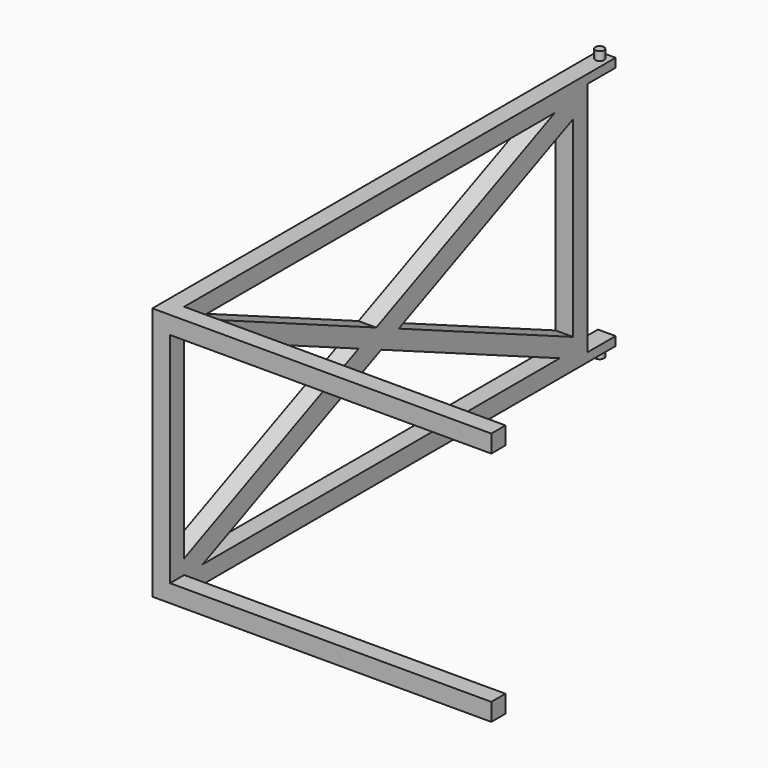
from build123d import *

# Parameters (mm, degrees)
F0_W      = 1500
F0_H      = 730
F0_W_2    = 1398.4
F0_H_2    = 628.4
F1_DEPTH  = 50.8
F3_DEPTH  = 50.8
F4_W      = 50.8
F4_H      = 25.4
F5_DEPTH  = 101.6
F6_R      = 12.5
F7_DEPTH  = 25
F8_R      = 12.5
F9_DEPTH  = 25
F10_W     = 50.8
F10_H     = 50.8
F11_DEPTH = 923.8


with BuildPart() as f1:
    # F0 (on Right) → F1 (new body)
    with BuildSketch(Plane.YZ):
        with Locations((-750, 365)):
            Rectangle(F0_W, F0_H)
        with Locations((-750, 365)):
            Rectangle(F0_W_2, F0_H_2, mode=Mode.SUBTRACT)
    extrude(amount=F1_DEPTH)

    # F2 (on face) → F3 (join, through all)
    with BuildSketch(Plane(origin=(0, 0, 0), x_dir=(0, -1, 0), z_dir=(-1, 0, 0))):
        Polygon((759.037996, 396.728377), (117.181979, 679.2), (50.8, 679.2), (50.8, 637.002018), (677.904086, 361.022508), (50.8, 85.042998), (50.8, 50.8), (99.105988, 50.8), (740.962004, 333.271623), (1382.818021, 50.8), (1449.2, 50.8), (1449.2, 92.997982), (822.095914, 368.977492), (1449.2, 644.957002), (1449.2, 679.2), (1400.894012, 679.2), align=None)
    extrude(amount=-F3_DEPTH)

    # F4 (on face) → F5 (join)
    with BuildSketch(Plane(origin=(0, 0, 0), x_dir=(-1, 0, 0), z_dir=(0, 1, 0))):
        with Locations((-25.4, 717.3)):
            Rectangle(F4_W, F4_H)
        with Locations((-25.4, 12.7)):
            Rectangle(F4_W, F4_H)
    extrude(amount=F5_DEPTH)

    # F6 (on face) → F7 (join)
    with BuildSketch(Plane.XY.offset(730)):
        with Locations((25.4, 76.2)):
            Circle(F6_R)
    extrude(amount=F7_DEPTH)

    # F8 (on face) → F9 (join)
    with BuildSketch(Plane(origin=(0, 0, 0), x_dir=(1, 0, 0), z_dir=(0, 0, -1))):
        with Locations((25.4, -76.2)):
            Circle(F8_R)
    extrude(amount=F9_DEPTH)

    # F10 (on face) → F11 (join)
    with BuildSketch(Plane.YZ.offset(50.8)):
        with Locations((-1474.6, 704.6)):
            Rectangle(F10_W, F10_H)
        with Locations((-1474.6, 25.4)):
            Rectangle(F10_W, F10_H)
    extrude(amount=F11_DEPTH)


solid = f1.part
